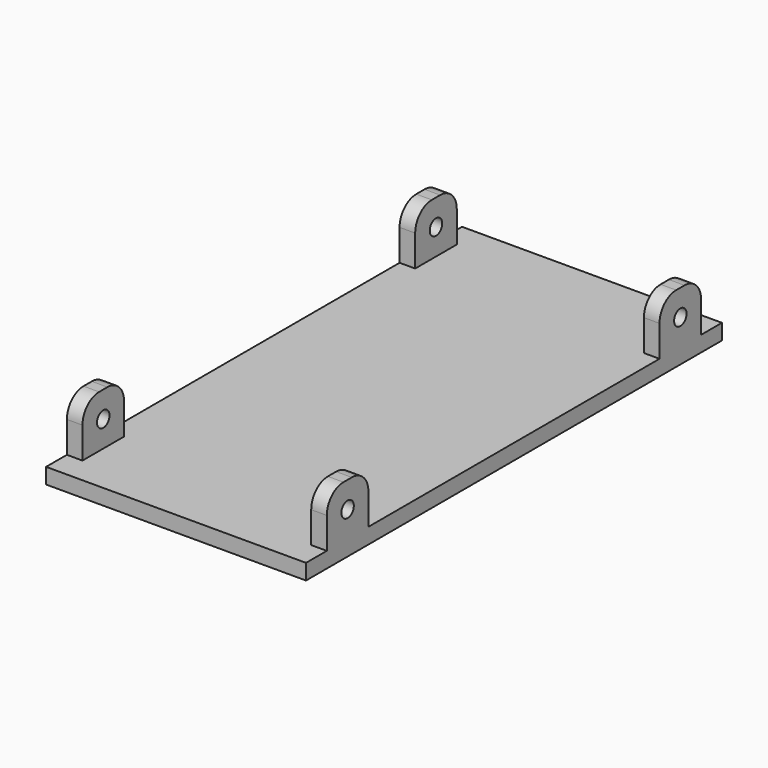
from build123d import *

# Parameters (mm, degrees)
F0_W     = 25
F0_H     = 100
F1_DEPTH = 3
F2_R     = 1.5
F3_DEPTH = 3


with BuildPart() as f1:
    # F0 (on Top) → F1 (new body)
    with BuildSketch(Plane.XY):
        Rectangle(F0_W, F0_H)
    extrude(amount=F1_DEPTH)

    # F2 (on face) → F3 (join)
    with BuildSketch(Plane.YZ.offset(12.5)):
        with BuildLine():
            Line((35, 9), (35, 3))
            Line((35, 3), (45, 3))
            Line((45, 3), (45, 9))
            ThreePointArc((45, 9), (43.828427, 11.828427), (41, 13))
            Line((41, 13), (39, 13))
            ThreePointArc((39, 13), (36.171573, 11.828427), (35, 9))
        make_face()
        with Locations((40, 8)):
            Circle(F2_R, mode=Mode.SUBTRACT)
        with BuildLine():
            Line((-45, 9), (-45, 3))
            Line((-45, 3), (-35, 3))
            Line((-35, 3), (-35, 9))
            ThreePointArc((-35, 9), (-36.171573, 11.828427), (-39, 13))
            Line((-39, 13), (-41, 13))
            ThreePointArc((-41, 13), (-43.828427, 11.828427), (-45, 9))
        make_face()
        with Locations((-40, 8)):
            Circle(F2_R, mode=Mode.SUBTRACT)
    extrude(amount=-F3_DEPTH)

    # F4: F1 across face


with BuildPart() as f1_1:
    add(f1.part)
    add(f1.part.mirror(Plane(origin=(-12.5, 0, 1.5), x_dir=(0, -1, 0), z_dir=(-1, 0, 0))))


solid = f1_1.part
